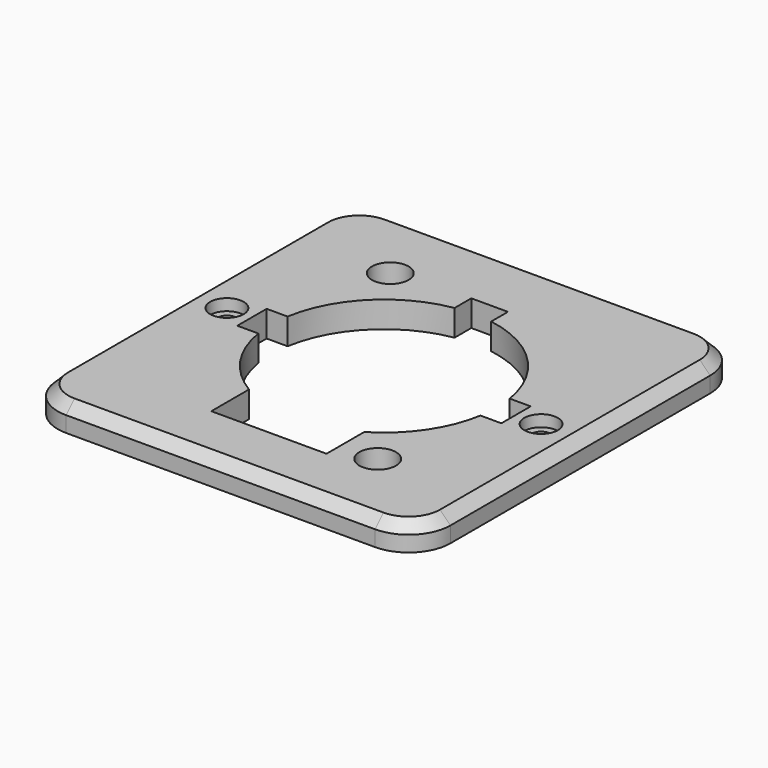
from build123d import *

# Parameters (mm, degrees)
SKETCH_W        = 37.5
SKETCH_H        = 39
PAD_DEPTH       = 2.5
SKETCH001_R     = 10.75
POCKET_DEPTH    = 5
SKETCH002_R     = 1.75
SKETCH002_W     = 2
SKETCH002_H     = 3.5
SKETCH002_W_2   = 3.5
SKETCH002_H_2   = 2
SKETCH002_W_3   = 11
SKETCH002_H_3   = 4.5
POCKET001_DEPTH = 5
FILLET_R        = 4
SKETCH003_R     = 1.6
POCKET002_DEPTH = 1.1
SKETCH004_R     = 0.9
POCKET003_DEPTH = 5
CHAMFER_SIZE    = 1


with BuildPart() as part:
    # Sketch → Pad (new body)
    with BuildSketch(Plane.XY):
        Rectangle(SKETCH_W, SKETCH_H)
    extrude(amount=PAD_DEPTH)

    # Sketch001 (on Face6 of Pad) → Pocket (cut)
    with BuildSketch(Plane.XY.offset(2.5)):
        Circle(SKETCH001_R)
    extrude(amount=-POCKET_DEPTH, mode=Mode.SUBTRACT)

    # Sketch002 (on Face5 of Pocket) → Pocket001 (cut)
    with BuildSketch(Plane.XY.offset(2.5)):
        with Locations((-9, 12)):
            Circle(SKETCH002_R)
        with Locations((9, -12)):
            Circle(SKETCH002_R)
        with Locations((11.606602, 0)):
            Rectangle(SKETCH002_W, SKETCH002_H)
        with Locations((-11.606602, 0)):
            Rectangle(SKETCH002_W, SKETCH002_H)
        with Locations((0, 11.606602)):
            Rectangle(SKETCH002_W_2, SKETCH002_H_2)
        with Locations((0, -11.486477)):
            Rectangle(SKETCH002_W_3, SKETCH002_H_3)
    extrude(amount=-POCKET001_DEPTH, mode=Mode.SUBTRACT)

    # Fillet
    fillet_edges = [part.edges().sort_by_distance(p)[0] for p in [
        (18.75, -19.5, 1.25),
        (-18.75, -19.5, 1.25),
        (18.75, 19.5, 1.25),
        (-18.75, 19.5, 1.25),
    ]]
    fillet(fillet_edges, radius=FILLET_R)

    # Sketch003 (on Face5 of Fillet) → Pocket002 (cut)
    with BuildSketch(Plane.XY.offset(2.5)):
        with Locations((-15, 0)):
            Circle(SKETCH003_R)
        with Locations((15, 0)):
            Circle(SKETCH003_R)
    extrude(amount=-POCKET002_DEPTH, mode=Mode.SUBTRACT)

    # Sketch004 (on Face31 of Pocket002) → Pocket003 (cut)
    with BuildSketch(Plane.XY.offset(1.4)):
        with Locations((-15, 0)):
            Circle(SKETCH004_R)
        with Locations((15, 0)):
            Circle(SKETCH004_R)
    extrude(amount=-POCKET003_DEPTH, mode=Mode.SUBTRACT)

    # Chamfer
    chamfer_edges = [part.edges().sort_by_distance(p)[0] for p in [
        (-18.75, 0, 2.5),
    ]]
    chamfer(chamfer_edges, length=CHAMFER_SIZE)


solid = part.part
